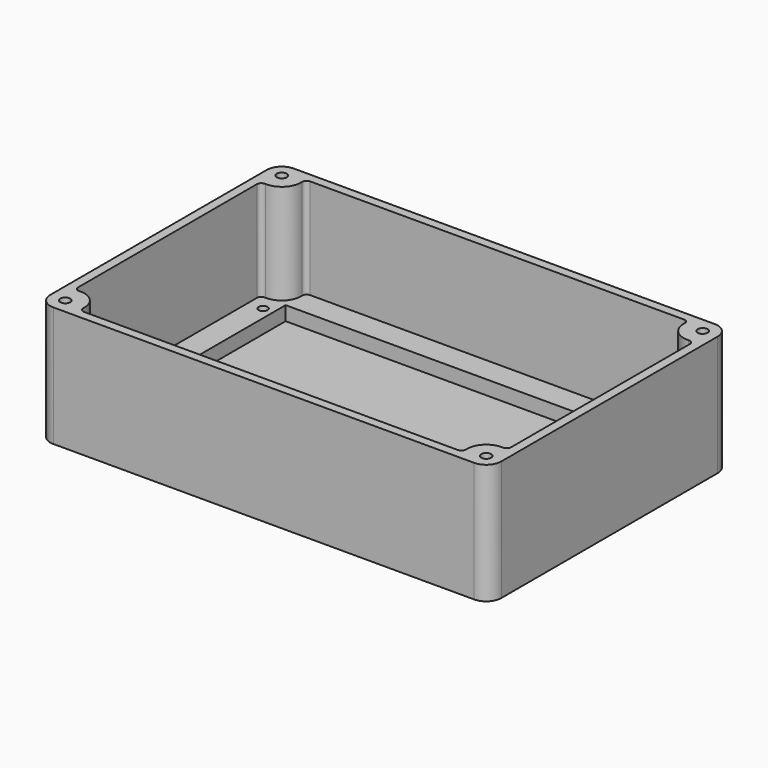
from build123d import *

# Parameters (mm, degrees)
F1_DEPTH = 80
F2_R     = 3.3
F2_R_2   = 3
F3_DEPTH = 75.6
F4_R     = 3
F4_W     = 254.5
F4_H     = 154.5
F5_DEPTH = 66.6
F6_W     = 254.5
F6_H     = 154.5
F7_DEPTH = 9.4


with BuildPart() as f1:
    # F0 (on Top) → F1 (new body)
    with BuildSketch(Plane.XY):
        with BuildLine():
            Line((290, 0), (10, 0))
            ThreePointArc((10, 0), (2.928932, -2.928932), (0, -10))
            Line((0, -10), (0, -190))
            ThreePointArc((0, -190), (2.928932, -197.071068), (10, -200))
            Line((10, -200), (290, -200))
            ThreePointArc((290, -200), (297.071068, -197.071068), (300, -190))
            Line((300, -190), (300, -10))
            ThreePointArc((300, -10), (297.071068, -2.928932), (290, 0))
        make_face()
    extrude(amount=F1_DEPTH)

    # F2 (on face) → F3 (cut)
    with BuildSketch(Plane.XY.offset(80)):
        with Locations((10, -10)):
            Circle(F2_R)
        with Locations((10, -190)):
            Circle(F2_R)
        with Locations((290, -190)):
            Circle(F2_R)
        with Locations((290, -10)):
            Circle(F2_R)
        with Locations((16, -33)):
            Circle(F2_R_2)
        with Locations((16, -100)):
            Circle(F2_R_2)
        with Locations((16, -167)):
            Circle(F2_R_2)
        with Locations((284, -100)):
            Circle(F2_R_2)
        with Locations((284, -33)):
            Circle(F2_R_2)
        with Locations((284, -167)):
            Circle(F2_R_2)
    extrude(amount=-F3_DEPTH, mode=Mode.SUBTRACT)

    # F4 (on face) → F5 (cut)
    with BuildSketch(Plane.XY.offset(80)):
        with BuildLine():
            Line((274.288541, -6), (25.724985, -6))
            ThreePointArc((25.724985, -6), (23.537386, -6.947098), (22.731033, -9.190395))
            ThreePointArc((22.731033, -9.190395), (19.020384, -19.020384), (9.190395, -22.731033))
            ThreePointArc((9.190395, -22.731033), (6.947098, -23.537386), (6, -25.724985))
            Line((6, -25.724985), (6, -174.275015))
            ThreePointArc((6, -174.275015), (6.947098, -176.462614), (9.190395, -177.268967))
            ThreePointArc((9.190395, -177.268967), (19.020384, -180.979616), (22.731033, -190.809605))
            ThreePointArc((22.731033, -190.809605), (23.537386, -193.052902), (25.724985, -194))
            Line((25.724985, -194), (274.288541, -194))
            ThreePointArc((274.288541, -194), (276.476197, -193.052843), (277.282483, -190.809442))
            ThreePointArc((277.282483, -190.809442), (280.989161, -180.989161), (290.809442, -177.282483))
            ThreePointArc((290.809442, -177.282483), (293.052843, -176.476197), (294, -174.288541))
            Line((294, -174.288541), (294, -25.711459))
            ThreePointArc((294, -25.711459), (293.052843, -23.523803), (290.809442, -22.717517))
            ThreePointArc((290.809442, -22.717517), (280.989161, -19.010839), (277.282483, -9.190558))
            ThreePointArc((277.282483, -9.190558), (276.476197, -6.947157), (274.288541, -6))
        make_face()
        with Locations((16, -167)):
            Circle(F4_R, mode=Mode.SUBTRACT)
        with Locations((284, -167)):
            Circle(F4_R, mode=Mode.SUBTRACT)
        with Locations((16, -100)):
            Circle(F4_R, mode=Mode.SUBTRACT)
        with Locations((16, -33)):
            Circle(F4_R, mode=Mode.SUBTRACT)
        with Locations((150.00675, -100)):
            Rectangle(F4_W, F4_H, mode=Mode.SUBTRACT)
        with Locations((284, -100)):
            Circle(F4_R, mode=Mode.SUBTRACT)
        with Locations((284, -33)):
            Circle(F4_R, mode=Mode.SUBTRACT)
        with Locations((150.00675, -100)):
            Rectangle(F4_W, F4_H)
    extrude(amount=-F5_DEPTH, mode=Mode.SUBTRACT)

    # F6 (on face) → F7 (cut)
    with BuildSketch(Plane.XY.offset(13.4)):
        with Locations((150, -100)):
            Rectangle(F6_W, F6_H)
    extrude(amount=-F7_DEPTH, mode=Mode.SUBTRACT)


solid = f1.part
